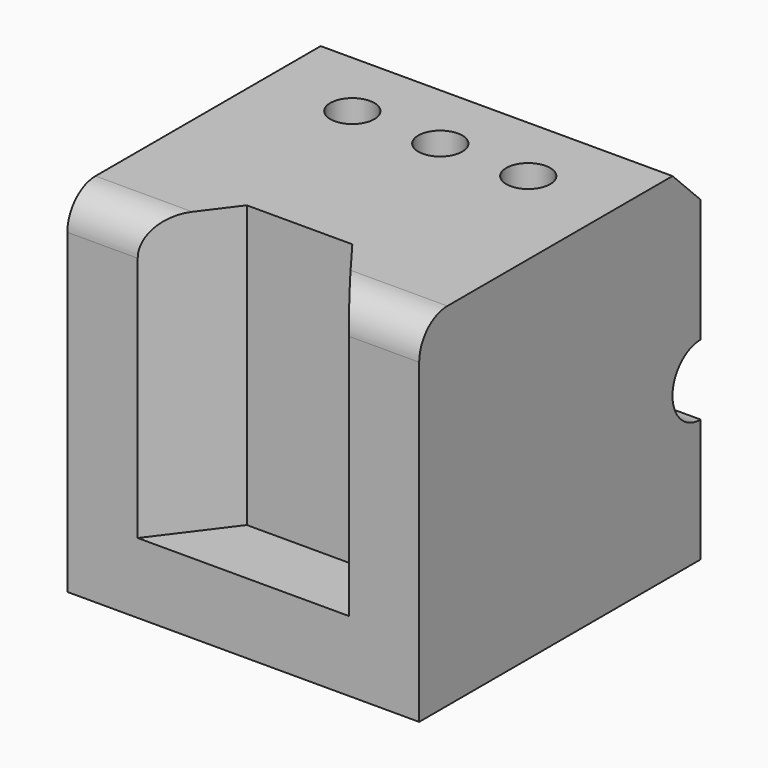
from build123d import *

# Parameters (mm, degrees)
F0_W     = 100
F0_H     = 100
F1_DEPTH = 100
F2_R     = 6.25
F3_DEPTH = 100.001
F5_DEPTH = 80
F7_DEPTH = 100.001
F9_DEPTH = 100.001
F10_R    = 10


with BuildPart() as f1:
    # F0 (on Front) → F1 (new body)
    with BuildSketch(Plane.XZ):
        with Locations((50, 50)):
            Rectangle(F0_W, F0_H)
    extrude(amount=F1_DEPTH)

    # F2 (on face) → F3 (cut, through all)
    with BuildSketch(Plane.XY.offset(100)):
        with Locations((25, -30)):
            Circle(F2_R)
        with Locations((50, -30)):
            Circle(F2_R)
        with Locations((75, -30)):
            Circle(F2_R)
    extrude(amount=-F3_DEPTH, mode=Mode.SUBTRACT)

    # F4 (on face) → F5 (cut)
    with BuildSketch(Plane.XY.offset(100)):
        Polygon((65, -80), (35, -80), (20, -100), (80, -100), align=None)
    extrude(amount=-F5_DEPTH, mode=Mode.SUBTRACT)

    # F6 (on face) → F7 (cut, through all)
    with BuildSketch(Plane(origin=(0, 0, 0), x_dir=(0, -1, 0), z_dir=(-1, 0, 0))):
        with BuildLine():
            ThreePointArc((0, 35), (7.071068, 37.928932), (10, 45))
            ThreePointArc((10, 45), (7.071068, 52.071068), (0, 55))
            Line((0, 55), (0, 35))
        make_face()
    extrude(amount=-F7_DEPTH, mode=Mode.SUBTRACT)

    # F8 (on face) → F9 (cut, through all)
    with BuildSketch(Plane(origin=(0, 0, 0), x_dir=(0, -1, 0), z_dir=(-1, 0, 0))):
        Polygon((0, 90), (10, 100), (0, 100), align=None)
    extrude(amount=-F9_DEPTH, mode=Mode.SUBTRACT)

    # F10
    f10_edges = [f1.edges().sort_by_distance(p)[0] for p in [
        (10, -100, 100),
        (90, -100, 100),
    ]]
    fillet(f10_edges, radius=F10_R)


solid = f1.part
